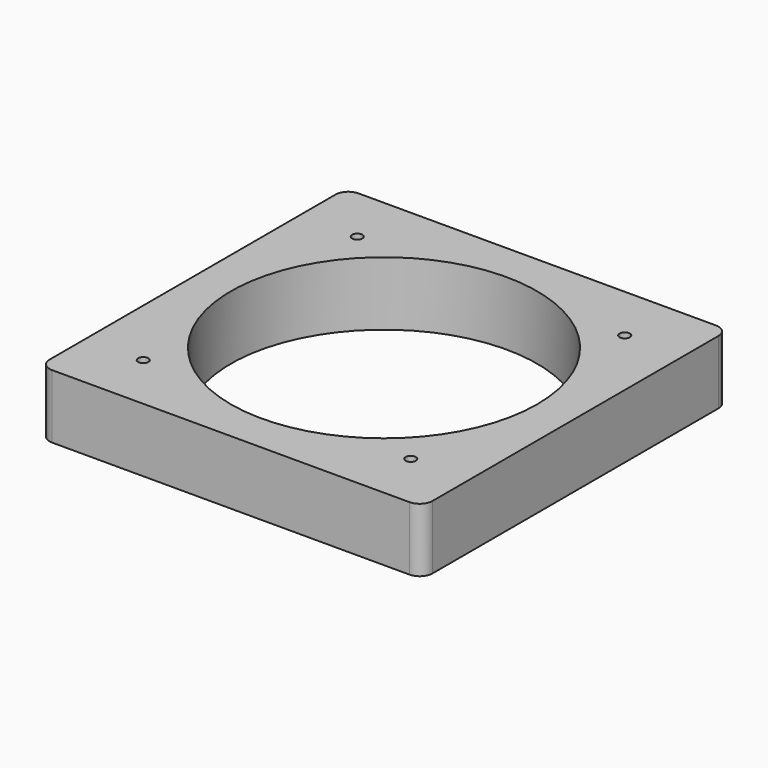
from build123d import *

# Parameters (mm, degrees)
F0_R     = 2
F0_R_2   = 60
F1_DEPTH = 25


with BuildPart() as f1:
    # F0 (on Top) → F1 (new body)
    with BuildSketch(Plane.XY):
        with BuildLine():
            Line((70, 75), (-70, 75))
            ThreePointArc((-70, 75), (-73.535534, 73.535534), (-75, 70))
            Line((-75, 70), (-75, -70))
            ThreePointArc((-75, -70), (-73.535534, -73.535534), (-70, -75))
            Line((-70, -75), (70, -75))
            ThreePointArc((70, -75), (73.535534, -73.535534), (75, -70))
            Line((75, -70), (75, 70))
            ThreePointArc((75, 70), (73.535534, 73.535534), (70, 75))
        make_face()
        with Locations((-52.4, -52.4)):
            Circle(F0_R, mode=Mode.SUBTRACT)
        with Locations((52.4, -52.4)):
            Circle(F0_R, mode=Mode.SUBTRACT)
        with Locations((-52.4, 52.4)):
            Circle(F0_R, mode=Mode.SUBTRACT)
        Circle(F0_R_2, mode=Mode.SUBTRACT)
        with Locations((52.4, 52.4)):
            Circle(F0_R, mode=Mode.SUBTRACT)
        with BuildLine():
            Line((70, 75), (-70, 75))
            ThreePointArc((-70, 75), (-73.535534, 73.535534), (-75, 70))
            Line((-75, 70), (-75, -70))
            ThreePointArc((-75, -70), (-73.535534, -73.535534), (-70, -75))
            Line((-70, -75), (70, -75))
            ThreePointArc((70, -75), (73.535534, -73.535534), (75, -70))
            Line((75, -70), (75, 70))
            ThreePointArc((75, 70), (73.535534, 73.535534), (70, 75))
        make_face()
        with Locations((-52.4, -52.4)):
            Circle(F0_R, mode=Mode.SUBTRACT)
        with Locations((52.4, -52.4)):
            Circle(F0_R, mode=Mode.SUBTRACT)
        with Locations((-52.4, 52.4)):
            Circle(F0_R, mode=Mode.SUBTRACT)
        Circle(F0_R_2, mode=Mode.SUBTRACT)
        with Locations((52.4, 52.4)):
            Circle(F0_R, mode=Mode.SUBTRACT)
        with BuildLine():
            Line((70, 75), (-70, 75))
            ThreePointArc((-70, 75), (-73.535534, 73.535534), (-75, 70))
            Line((-75, 70), (-75, -70))
            ThreePointArc((-75, -70), (-73.535534, -73.535534), (-70, -75))
            Line((-70, -75), (70, -75))
            ThreePointArc((70, -75), (73.535534, -73.535534), (75, -70))
            Line((75, -70), (75, 70))
            ThreePointArc((75, 70), (73.535534, 73.535534), (70, 75))
        make_face()
        with Locations((-52.4, -52.4)):
            Circle(F0_R, mode=Mode.SUBTRACT)
        with Locations((52.4, -52.4)):
            Circle(F0_R, mode=Mode.SUBTRACT)
        with Locations((-52.4, 52.4)):
            Circle(F0_R, mode=Mode.SUBTRACT)
        Circle(F0_R_2, mode=Mode.SUBTRACT)
        with Locations((52.4, 52.4)):
            Circle(F0_R, mode=Mode.SUBTRACT)
        with BuildLine():
            Line((70, 75), (-70, 75))
            ThreePointArc((-70, 75), (-73.535534, 73.535534), (-75, 70))
            Line((-75, 70), (-75, -70))
            ThreePointArc((-75, -70), (-73.535534, -73.535534), (-70, -75))
            Line((-70, -75), (70, -75))
            ThreePointArc((70, -75), (73.535534, -73.535534), (75, -70))
            Line((75, -70), (75, 70))
            ThreePointArc((75, 70), (73.535534, 73.535534), (70, 75))
        make_face()
        with Locations((-52.4, -52.4)):
            Circle(F0_R, mode=Mode.SUBTRACT)
        with Locations((52.4, -52.4)):
            Circle(F0_R, mode=Mode.SUBTRACT)
        with Locations((-52.4, 52.4)):
            Circle(F0_R, mode=Mode.SUBTRACT)
        Circle(F0_R_2, mode=Mode.SUBTRACT)
        with Locations((52.4, 52.4)):
            Circle(F0_R, mode=Mode.SUBTRACT)
    extrude(amount=F1_DEPTH)


solid = f1.part
